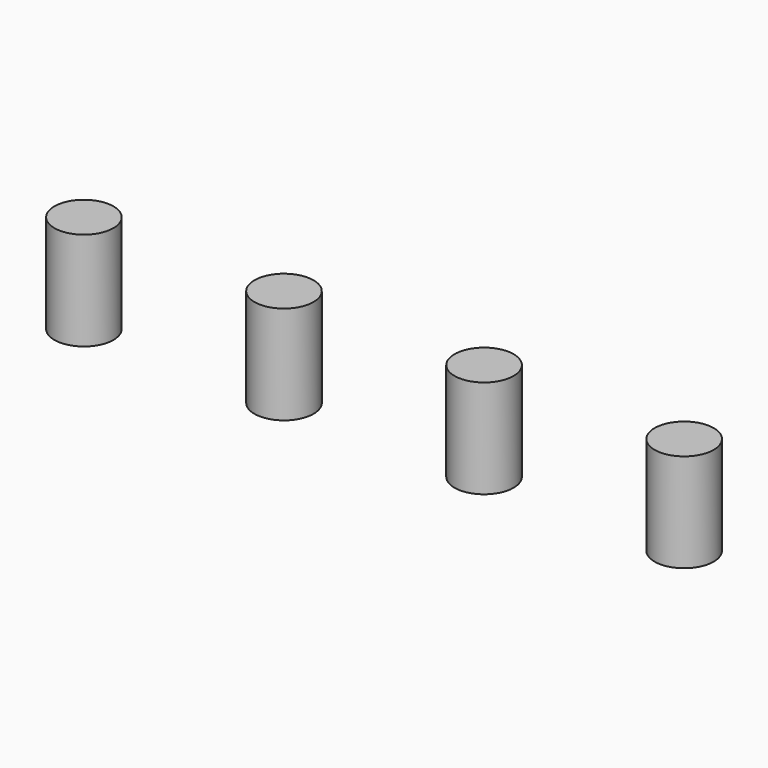
from build123d import *

# Parameters (mm, degrees)
CYLINDER010_R     = 3
CYLINDER010_DEPTH = 10
CYLINDER009_R     = 3
CYLINDER009_DEPTH = 10
CYLINDER008_R     = 3
CYLINDER008_DEPTH = 10
CYLINDER011_R     = 3
CYLINDER011_DEPTH = 10


with BuildPart() as cylinder010:
    # Cylinder010 → Cylinder010 (new body)
    with BuildSketch(Plane(origin=(30.48, 3.81, 0), x_dir=(1, 0, 0), z_dir=(0, 0, 1))):
        Circle(CYLINDER010_R)
    extrude(amount=CYLINDER010_DEPTH)


with BuildPart() as cylinder009:
    # Cylinder009 → Cylinder009 (new body)
    with BuildSketch(Plane(origin=(10.16, 3.81, 0), x_dir=(1, 0, 0), z_dir=(0, 0, 1))):
        Circle(CYLINDER009_R)
    extrude(amount=CYLINDER009_DEPTH)


with BuildPart() as cylinder008:
    # Cylinder008 → Cylinder008 (new body)
    with BuildSketch(Plane(origin=(-10.16, 3.81, 0), x_dir=(1, 0, 0), z_dir=(0, 0, 1))):
        Circle(CYLINDER008_R)
    extrude(amount=CYLINDER008_DEPTH)


with BuildPart() as button:
    # Cylinder011 → Cylinder011 (new body)
    with BuildSketch(Plane(origin=(-30.48, 3.81, 0), x_dir=(1, 0, 0), z_dir=(0, 0, 1))):
        Circle(CYLINDER011_R)
    extrude(amount=CYLINDER011_DEPTH)

    # Fusion002: union Cylinder010, Cylinder009, Cylinder008
    add(cylinder010.part)
    add(cylinder009.part)
    add(cylinder008.part)


solid = button.part
